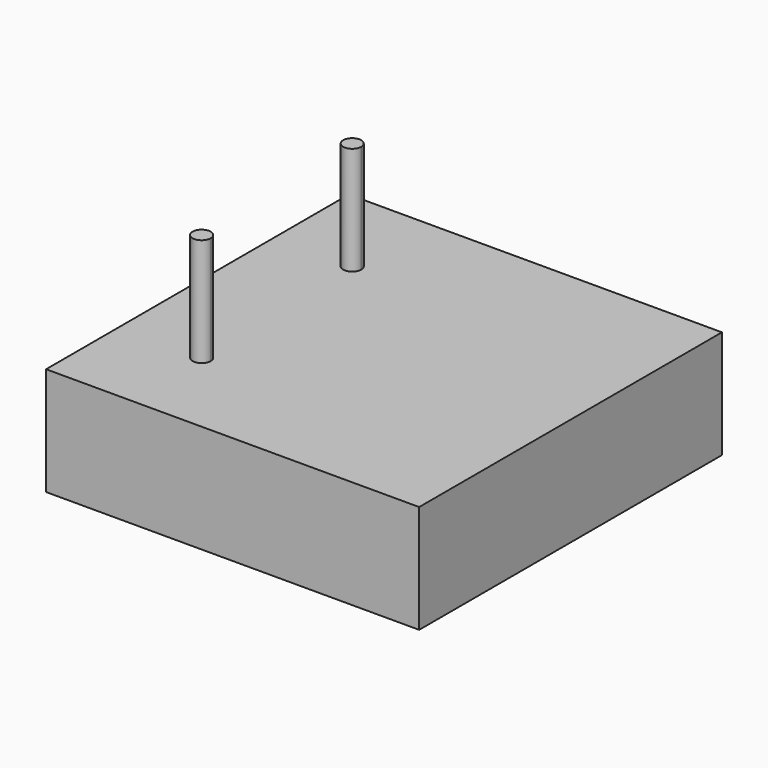
from build123d import *

# Parameters (mm, degrees)
F0_W     = 87.64372
F0_H     = 88.9
F1_DEPTH = 25.4
F3_DEPTH = 25.4
F4_DEPTH = 25.4


with BuildPart() as f1:
    # F0 (on Top) → F1 (new body)
    with BuildSketch(Plane.XY):
        Rectangle(F0_W, F0_H)
    extrude(amount=F1_DEPTH)

    # F2 (on face) → F3 (join)
    with BuildSketch(Plane.XY.offset(25.4)):
        with BuildLine():
            ThreePointArc((-23.397237, 22.612818), (-27.638216, 22.533643), (-23.39658, 22.560036))
            ThreePointArc((-23.39658, 22.560036), (-23.396744, 22.586429), (-23.397237, 22.612818))
        make_face()
    extrude(amount=F3_DEPTH)

    # F2 (on face) → F4 (join)
    with BuildSketch(Plane.XY.offset(25.4)):
        with BuildLine():
            ThreePointArc((-22.260667, -23.069627), (-22.260831, -23.043234), (-22.261324, -23.016845))
            ThreePointArc((-22.261324, -23.016845), (-26.502303, -23.09602), (-22.260667, -23.069627))
        make_face()
    extrude(amount=F4_DEPTH)


solid = f1.part
